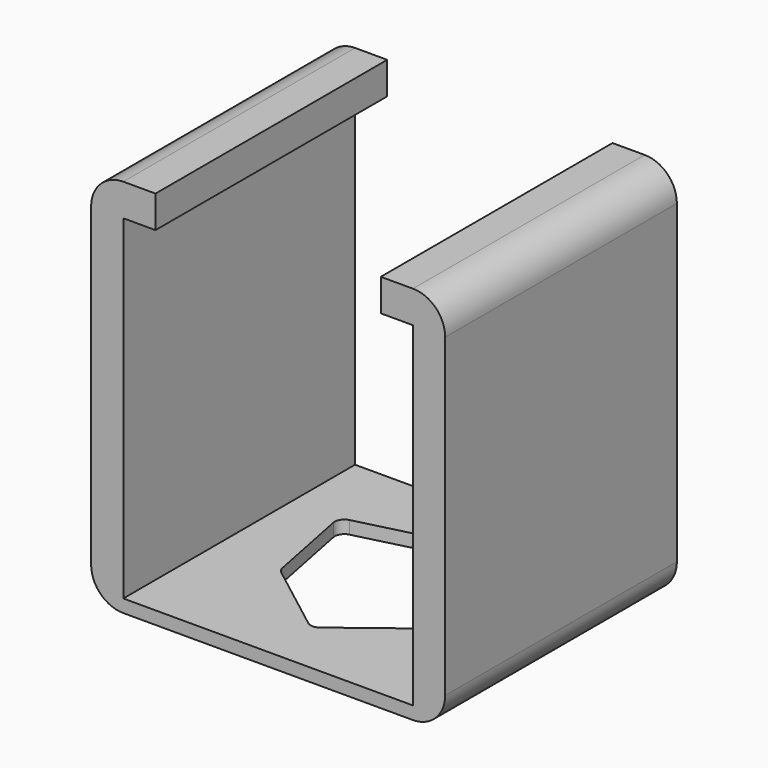
from build123d import *

# Parameters (mm, degrees)
F0_W      = 45
F0_H      = 45
F1_DEPTH  = 2
F2_DEPTH  = 5
F3_DEPTH  = 5
F4_W      = 5
F4_H      = 45
F5_DEPTH  = 57
F7_W      = 45
F7_H      = 5
F8_DEPTH  = 5
F6_W      = 45
F6_H      = 5
F9_DEPTH  = 5
F10_R     = 5
F12_DEPTH = 1


with BuildPart() as f1:
    # F0 (on Top) → F1 (new body)
    with BuildSketch(Plane.XY):
        with Locations((0, 4.82134892)):
            Rectangle(F0_W, F0_H)
        with BuildLine():
            ThreePointArc((-15.0511533834, 13.8031822317), (-14.8481410429, 14.8973282595), (-13.9471820002, 15.5505069059))
            Line((-13.9471820002, 15.5505069059), (-0.3671439173, 18.9786667044))
            ThreePointArc((-0.3671439173, 18.9786667044), (0, 19.0242921501), (0.3671439173, 18.9786667044))
            Line((0.3671439173, 18.9786667044), (13.9471820002, 15.5505069059))
            ThreePointArc((13.9471820002, 15.5505069059), (14.8481410429, 14.8973282595), (15.0511533834, 13.8031822317))
            Line((15.0511533834, 13.8031822317), (12.4127807629, 0.5539972479))
            ThreePointArc((12.4127807629, 0.5539972479), (12.2151536655, 0.0543391438), (11.854115567, -0.3436133433))
            Line((11.854115567, -0.3436133433), (0.9124501045, -8.7293459665))
            ThreePointArc((0.9124501045, -8.7293459665), (0, -9.0387852554), (-0.9124501045, -8.7293459665))
            Line((-0.9124501045, -8.7293459665), (-11.854115567, -0.3436133433))
            ThreePointArc((-11.854115567, -0.3436133433), (-12.2151536655, 0.0543391438), (-12.4127807629, 0.5539972479))
            Line((-12.4127807629, 0.5539972479), (-15.0511533834, 13.8031822317))
        make_face(mode=Mode.SUBTRACT)
    extrude(amount=F1_DEPTH)

    # F2 (add): a face of the model
    f2_faces = [f1.faces().sort_by_distance(p)[0] for p in [
        (-22.5, 4.82134892, 1),
    ]]
    extrude(f2_faces, amount=F2_DEPTH)

    # F3 (add): a face of the model
    f3_faces = [f1.faces().sort_by_distance(p)[0] for p in [
        (22.5, 4.82134892, 1),
    ]]
    extrude(f3_faces, amount=F3_DEPTH)

    # F4 (on face) → F5 (join)
    with BuildSketch(Plane.XY.offset(2)):
        with Locations((-25, 4.82134892)):
            Rectangle(F4_W, F4_H)
        with Locations((25, 4.82134892)):
            Rectangle(F4_W, F4_H)
    extrude(amount=F5_DEPTH)

    # F7 (on face) → F8 (join)
    with BuildSketch(Plane(origin=(22.5, 0, 0), x_dir=(0, -1, 0), z_dir=(-1, 0, 0))):
        with Locations((-4.82134892, 56.5)):
            Rectangle(F7_W, F7_H)
    extrude(amount=F8_DEPTH)

    # F6 (on face) → F9 (join)
    with BuildSketch(Plane.YZ.offset(-22.5)):
        with Locations((4.82134892, 56.5)):
            Rectangle(F6_W, F6_H)
    extrude(amount=F9_DEPTH)

    # F10
    f10_edges = [f1.edges().sort_by_distance(p)[0] for p in [
        (27.5, 4.821349, 0),
        (-27.5, 4.821349, 0),
        (-27.5, 4.821349, 59),
        (27.5, 4.821349, 59),
    ]]
    fillet(f10_edges, radius=F10_R)

    # F11 (on face) → F12 (cut)
    with BuildSketch(Plane(origin=(-27.5, 0, 0), x_dir=(0, -1, 0), z_dir=(-1, 0, 0))):
        with BuildLine():
            ThreePointArc((1.4999996684, 16.5000007302), (5.0355335744, 17.9644668242), (6.4999996684, 21.5000007302))
            Line((6.4999996684, 21.5000007302), (6.4999996684, 36.5000007302))
            ThreePointArc((6.4999996684, 36.5000007302), (5.0355335744, 40.0355346361), (1.4999996684, 41.5000007302))
            Line((1.4999996684, 41.5000007302), (-13.5000003316, 41.5000007302))
            ThreePointArc((-13.5000003316, 41.5000007302), (-17.0355342375, 40.0355346361), (-18.5000003316, 36.5000007302))
            Line((-18.5000003316, 36.5000007302), (-18.5000003316, 21.5000007302))
            ThreePointArc((-18.5000003316, 21.5000007302), (-17.0355342375, 17.9644668242), (-13.5000003316, 16.5000007302))
            Line((-13.5000003316, 16.5000007302), (1.4999996684, 16.5000007302))
        make_face()
        with BuildLine():
            Line((1.4999996684, 32.7500007302), (1.4999996684, 25.2500007302))
            ThreePointArc((1.4999996684, 25.2500007302), (0.4016500979, 22.5983503007), (-2.2500003316, 21.5000007302))
            Line((-2.2500003316, 21.5000007302), (-9.7500003316, 21.5000007302))
            ThreePointArc((-9.7500003316, 21.5000007302), (-12.401650761, 22.5983503007), (-13.5000003316, 25.2500007302))
            Line((-13.5000003316, 25.2500007302), (-13.5000003316, 32.7500007302))
            ThreePointArc((-13.5000003316, 32.7500007302), (-12.401650761, 35.4016511596), (-9.7500003316, 36.5000007302))
            Line((-9.7500003316, 36.5000007302), (-2.2500003316, 36.5000007302))
            ThreePointArc((-2.2500003316, 36.5000007302), (-1.5530488983, 36.4346660745), (-0.8803828421, 36.2409387033))
            Line((-0.8803828316, 36.2409387302), (-6.1767770816, 30.9445444802))
            ThreePointArc((-6.176777058, 30.9445444566), (-6.5428935816, 30.0606609802), (-6.176777058, 29.1767775037))
            Line((-6.1767770816, 29.1767774802), (-6.0000003316, 29.0000007302))
            Line((-6.0000003316, 29.0000007302), (-5.8232235816, 28.8232239802))
            ThreePointArc((-5.823223558, 28.8232240037), (-4.9393400816, 28.4571074802), (-4.0554566051, 28.8232240037))
            Line((-4.0554565816, 28.8232239802), (1.2409376684, 34.1196182302))
            ThreePointArc((1.2409376416, 34.1196182196), (1.4346650128, 33.4469521634), (1.4999996684, 32.7500007302))
        make_face(mode=Mode.SUBTRACT)
    extrude(amount=-F12_DEPTH, mode=Mode.SUBTRACT)


solid = f1.part
